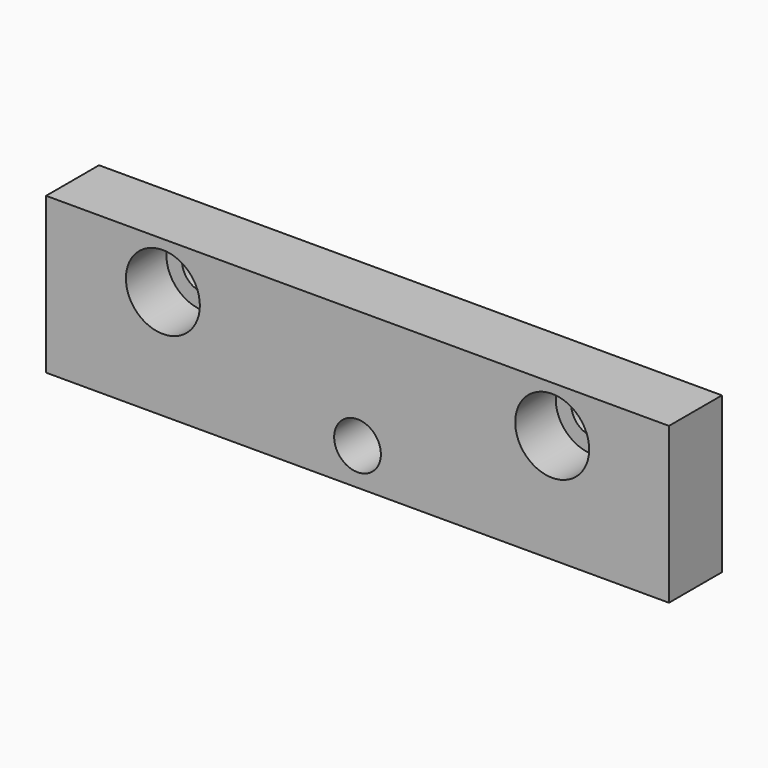
from build123d import *

# Parameters (mm, degrees)
F0_W     = 80
F0_H     = 20
F0_R     = 3
F0_R_2   = 2.75
F1_DEPTH = 8.5
F2_R     = 4.75
F2_R_2   = 2.75
F3_DEPTH = 6.5


with BuildPart() as f1:
    # F0 (on Front) → F1 (new body)
    with BuildSketch(Plane.XZ):
        with Locations((40, 10)):
            Rectangle(F0_W, F0_H)
        with Locations((40, 4.75)):
            Circle(F0_R, mode=Mode.SUBTRACT)
        with Locations((15, 14)):
            Circle(F0_R_2, mode=Mode.SUBTRACT)
        with Locations((65, 14)):
            Circle(F0_R_2, mode=Mode.SUBTRACT)
    extrude(amount=F1_DEPTH)

    # F2 (on face) → F3 (cut)
    with BuildSketch(Plane.XZ.offset(8.5)):
        with Locations((15, 14)):
            Circle(F2_R)
        with Locations((15, 14)):
            Circle(F2_R_2, mode=Mode.SUBTRACT)
        with Locations((65, 14)):
            Circle(F2_R)
        with Locations((65, 14)):
            Circle(F2_R_2, mode=Mode.SUBTRACT)
    extrude(amount=-F3_DEPTH, mode=Mode.SUBTRACT)


solid = f1.part
